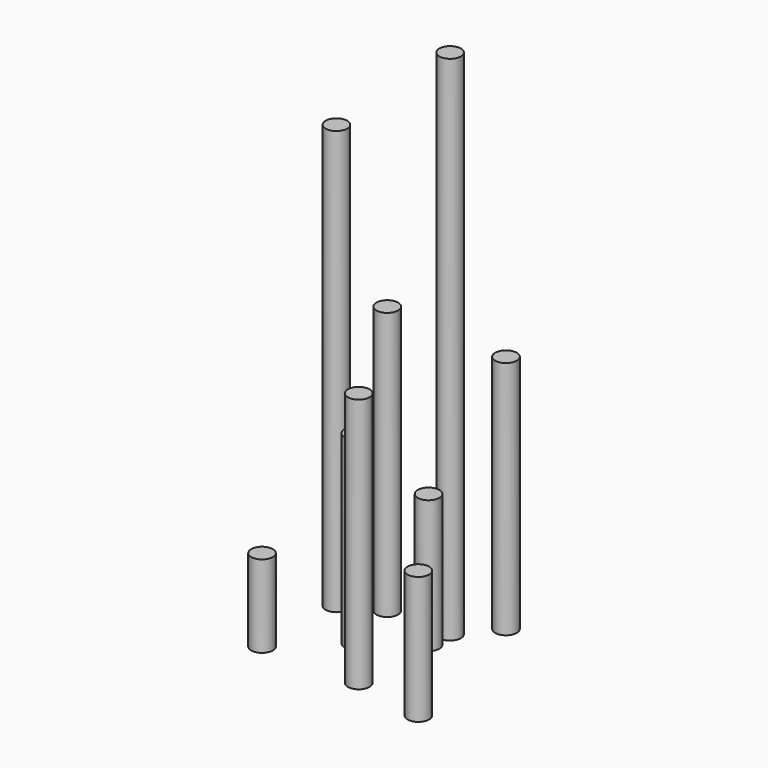
from build123d import *

# Parameters (mm, degrees)
F0_R      = 13.335
F1_DEPTH  = 228.6
F2_R      = 13.335
F3_DEPTH  = 101.6
F4_R      = 13.335
F5_DEPTH  = 315.0108
F6_R      = 13.335
F7_DEPTH  = 523.1892
F8_R      = 13.335
F9_DEPTH  = 164.0332
F10_R     = 13.335
F11_DEPTH = 296.0116
F12_R     = 13.335
F13_DEPTH = 632.5108
F14_R     = 13.335
F15_DEPTH = 330.6826
F16_R     = 13.335
F17_DEPTH = 157.607


with BuildPart() as f1:
    # F0 (on Top) → F1 (new body)
    with BuildSketch(Plane.XY):
        Circle(F0_R)
    extrude(amount=F1_DEPTH)


with BuildPart() as f3:
    # F2 (on Top) → F3 (new body)
    with BuildSketch(Plane.XY):
        with Locations((-66.077583, -61.286233)):
            Circle(F2_R)
    extrude(amount=F3_DEPTH)


with BuildPart() as f5:
    # F4 (on Top) → F5 (new body)
    with BuildSketch(Plane.XY):
        with Locations((54.349527, -62.546603)):
            Circle(F4_R)
    extrude(amount=F5_DEPTH)


with BuildPart() as f7:
    # F6 (on Top) → F7 (new body)
    with BuildSketch(Plane.XY):
        with Locations((-63.06272, 49.796227)):
            Circle(F6_R)
    extrude(amount=F7_DEPTH)


with BuildPart() as f9:
    # F8 (on Top) → F9 (new body)
    with BuildSketch(Plane.XY):
        with Locations((57.074126, 41.856747)):
            Circle(F8_R)
    extrude(amount=F9_DEPTH)


with BuildPart() as f11:
    # F10 (on Top) → F11 (new body)
    with BuildSketch(Plane.XY):
        with Locations((94.748959, 114.27179)):
            Circle(F10_R)
    extrude(amount=F11_DEPTH)


with BuildPart() as f13:
    # F12 (on Top) → F13 (new body)
    with BuildSketch(Plane.XY):
        with Locations((59.500091, 72.069749)):
            Circle(F12_R)
    extrude(amount=F13_DEPTH)


with BuildPart() as f15:
    # F14 (on Top) → F15 (new body)
    with BuildSketch(Plane.XY):
        with Locations((-18.563656, 72.589368)):
            Circle(F14_R)
    extrude(amount=F15_DEPTH)


with BuildPart() as f17:
    # F16 (on Top) → F17 (new body)
    with BuildSketch(Plane.XY):
        with Locations((141.682953, -79.719841)):
            Circle(F16_R)
    extrude(amount=F17_DEPTH)


solid = Compound([f1.part, f3.part, f5.part, f7.part, f9.part, f11.part, f13.part, f15.part, f17.part])
